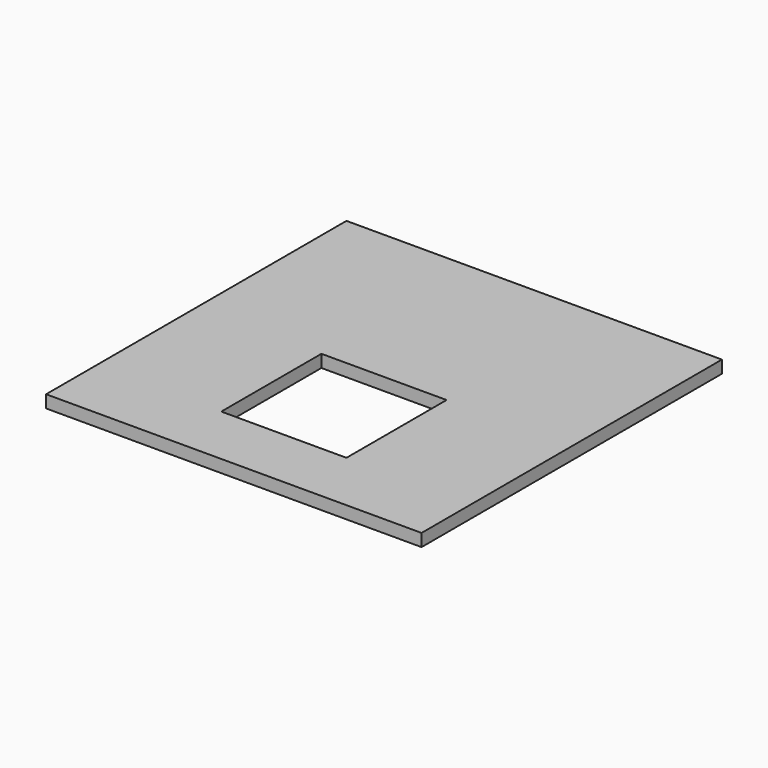
from build123d import *

# Parameters (mm, degrees)
SKETCH_W     = 90
SKETCH_H     = 90
PAD_DEPTH    = 3
SKETCH001_W  = 30
SKETCH001_H  = 30
POCKET_DEPTH = 3


with BuildPart() as part:
    # Sketch → Pad (new body)
    with BuildSketch(Plane.XY):
        with Locations((-45, 45)):
            Rectangle(SKETCH_W, SKETCH_H)
    extrude(amount=PAD_DEPTH)

    # Sketch001 → Pocket (cut)
    with BuildSketch(Plane.XY):
        with Locations((-45, 30)):
            Rectangle(SKETCH001_W, SKETCH001_H)
    extrude(amount=POCKET_DEPTH, mode=Mode.SUBTRACT)


solid = part.part
